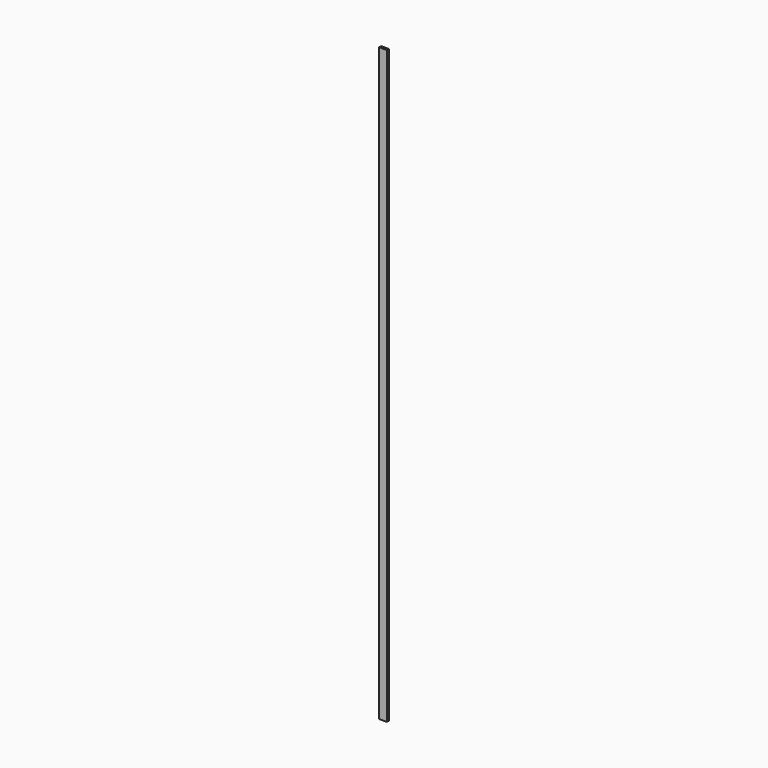
from build123d import *

# Parameters (mm, degrees)
SKETCH_W  = 30
SKETCH_H  = 10
PAD_DEPTH = 1157


with BuildPart() as part:
    # Sketch → Pad (new body, symmetric)
    with BuildSketch(Plane.XY):
        Rectangle(SKETCH_W, SKETCH_H)
    extrude(amount=PAD_DEPTH, both=True)


solid = part.part
